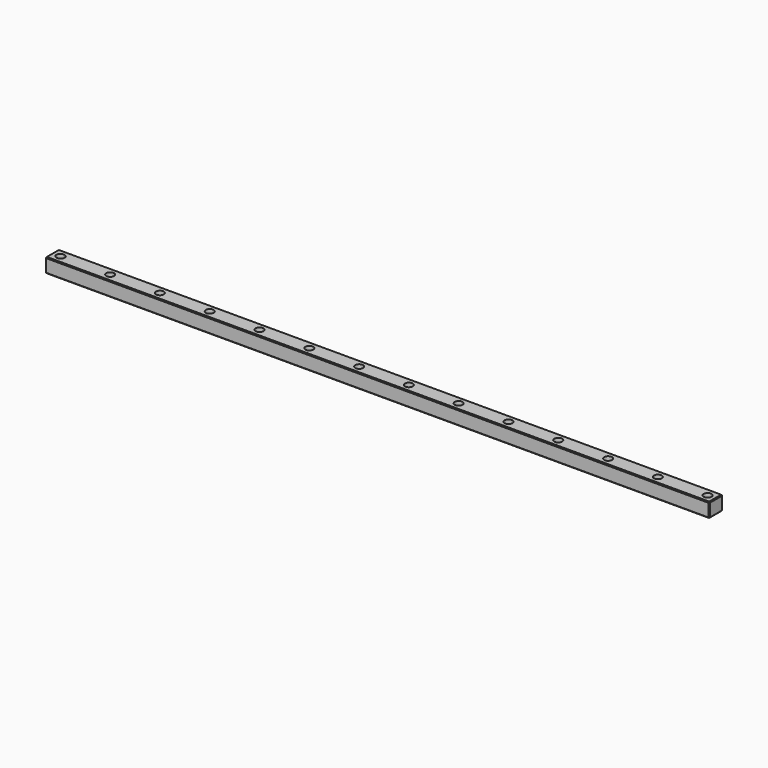
from build123d import *

# Parameters (mm, degrees)
SKETCH_W        = 800
SKETCH_H        = 20
PAD_DEPTH       = 17.5
SKETCH001_R     = 4.75
POCKET_DEPTH    = 8.5
SKETCH002_R     = 3
POCKET001_DEPTH = 17.501
CHAMFER_SIZE    = 1
SKETCH003_W     = 5
SKETCH003_H     = 5
POCKET002_DEPTH = 4


with BuildPart() as part:
    # Sketch → Pad (new body)
    with BuildSketch(Plane.XY):
        with Locations((385, 0)):
            Rectangle(SKETCH_W, SKETCH_H)
    extrude(amount=PAD_DEPTH)

    # Sketch001 (on Face6 of Pad) → Pocket (cut)
    with BuildSketch(Plane.XY.offset(17.5)):
        with Locations((-5, 0)):
            Circle(SKETCH001_R)
        with Locations((55, 0)):
            Circle(SKETCH001_R)
        with Locations((115, 0)):
            Circle(SKETCH001_R)
        with Locations((175, 0)):
            Circle(SKETCH001_R)
        with Locations((235, 0)):
            Circle(SKETCH001_R)
        with Locations((295, 0)):
            Circle(SKETCH001_R)
        with Locations((355, 0)):
            Circle(SKETCH001_R)
        with Locations((415, 0)):
            Circle(SKETCH001_R)
        with Locations((475, 0)):
            Circle(SKETCH001_R)
        with Locations((535, 0)):
            Circle(SKETCH001_R)
        with Locations((595, 0)):
            Circle(SKETCH001_R)
        with Locations((655, 0)):
            Circle(SKETCH001_R)
        with Locations((715, 0)):
            Circle(SKETCH001_R)
        with Locations((775, 0)):
            Circle(SKETCH001_R)
    extrude(amount=-POCKET_DEPTH, mode=Mode.SUBTRACT)

    # Sketch002 (on Face5 of Pocket) → Pocket001 (cut, through all)
    with BuildSketch(Plane.XY.offset(17.5)):
        with Locations((-5, 0)):
            Circle(SKETCH002_R)
        with Locations((55, 0)):
            Circle(SKETCH002_R)
        with Locations((115, 0)):
            Circle(SKETCH002_R)
        with Locations((175, 0)):
            Circle(SKETCH002_R)
        with Locations((235, 0)):
            Circle(SKETCH002_R)
        with Locations((295, 0)):
            Circle(SKETCH002_R)
        with Locations((355, 0)):
            Circle(SKETCH002_R)
        with Locations((415, 0)):
            Circle(SKETCH002_R)
        with Locations((475, 0)):
            Circle(SKETCH002_R)
        with Locations((535, 0)):
            Circle(SKETCH002_R)
        with Locations((595, 0)):
            Circle(SKETCH002_R)
        with Locations((655, 0)):
            Circle(SKETCH002_R)
        with Locations((715, 0)):
            Circle(SKETCH002_R)
        with Locations((775, 0)):
            Circle(SKETCH002_R)
    extrude(amount=-POCKET001_DEPTH, mode=Mode.SUBTRACT)

    # Chamfer
    chamfer_edges = [part.edges().sort_by_distance(p)[0] for p in [
        (785, 0, 17.5),
        (785, -10, 8.75),
        (785, 0, 0),
        (785, 10, 8.75),
        (385, 10, 17.5),
        (385, -10, 0),
        (385, 10, 0),
        (-15, 10, 8.75),
        (-15, 0, 17.5),
        (-15, -10, 8.75),
        (-15, 0, 0),
        (385, -10, 17.5),
    ]]
    chamfer(chamfer_edges, length=CHAMFER_SIZE)

    # Sketch003 → Pocket002 (cut)
    with BuildSketch(Plane.YZ):
        with Locations((0, 15)):
            Rectangle(SKETCH003_W, SKETCH003_H)
    extrude(amount=-POCKET002_DEPTH, mode=Mode.SUBTRACT)


solid = part.part
